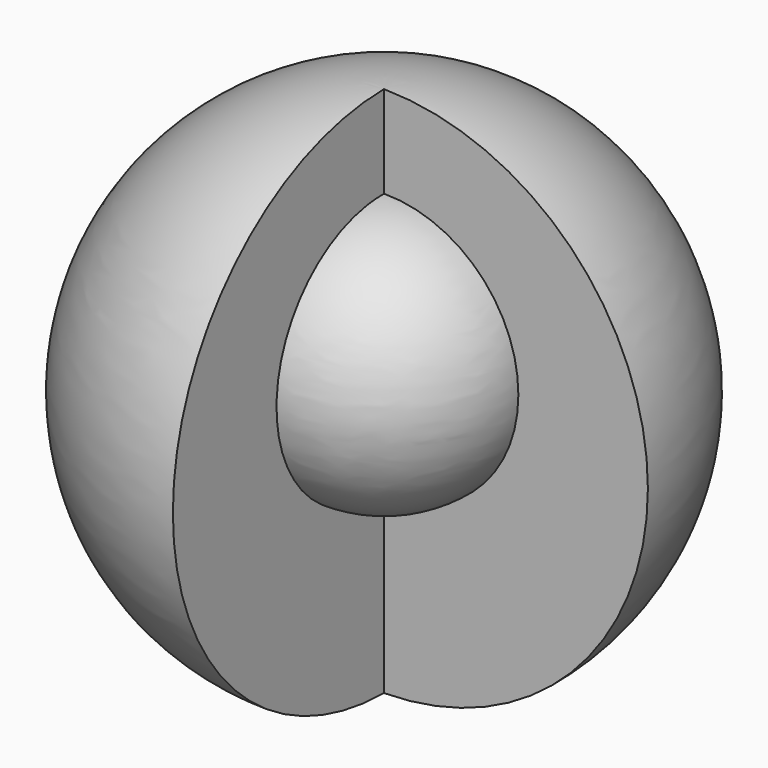
from build123d import *

# Parameters (mm, degrees)
F1_ANGLE = 270


with BuildPart() as f1:
    # F0 (on Front) → F1 (revolve)
    with BuildSketch(Plane.XZ):
        with BuildLine():
            Line((0, 56.0674592853), (0, 0))
            ThreePointArc((0, 0), (27.8246620288, 28.0337296426), (0, 56.0674592853))
        make_face()
    revolve(axis=Axis((0, 0, 28.0337296426), (0, 0, 1)), revolution_arc=F1_ANGLE)

    # F2 (on face) → F3 (revolve)
    with BuildSketch(Plane.XZ):
        with BuildLine():
            ThreePointArc((0, 18.2595271617), (14.1686356186, 32.3071638122), (0, 46.3548004627))
            Line((0, 46.3548004627), (0, 18.2595271617))
        make_face()
    revolve(axis=Axis((0, 0, 32.3071638122), (0, 0, -1)))


solid = f1.part
